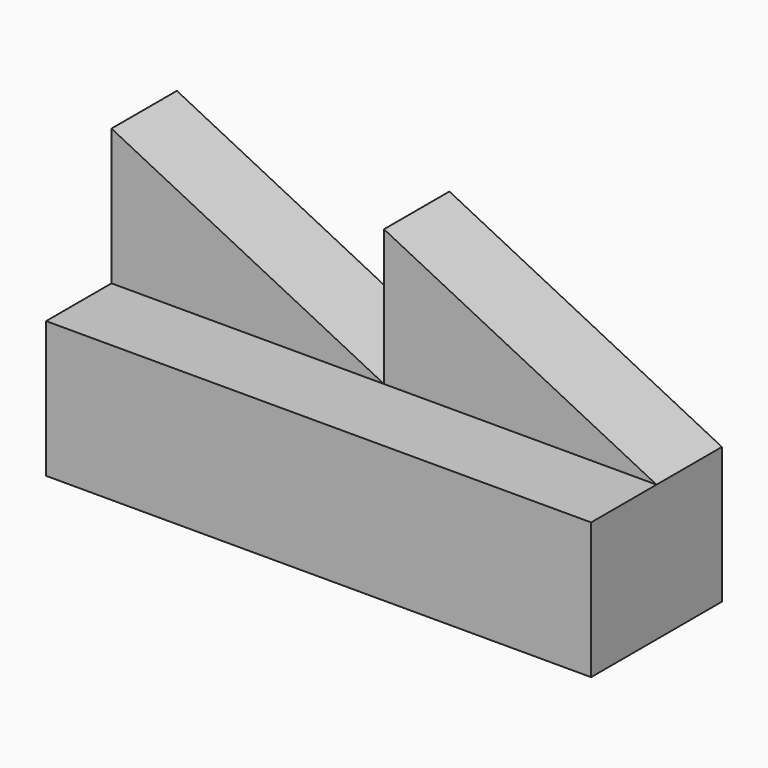
from build123d import *

# Parameters (mm, degrees)
F1_DEPTH = 38.1
F2_DEPTH = 19.05


with BuildPart() as f1:
    # F0 (on Front) → F1 (new body)
    with BuildSketch(Plane.XZ):
        Polygon((-25.6403960005, -3.0065396173), (-25.6403960005, -34.7565396173), (101.3596039995, -34.7565396173), (101.3596039995, -3.0065396173), (37.8596039995, -3.0065396173), align=None)
    extrude(amount=F1_DEPTH)

    # F0 (on Front) → F2 (join)
    with BuildSketch(Plane.XZ):
        Polygon((37.8596039995, -3.0065396173), (101.3596039995, -3.0065396173), (37.8596039995, 28.7434603827), align=None)
        Polygon((-25.6403960005, 28.7434603827), (-25.6403960005, -3.0065396173), (37.8596039995, -3.0065396173), align=None)
    extrude(amount=F2_DEPTH)


solid = f1.part
